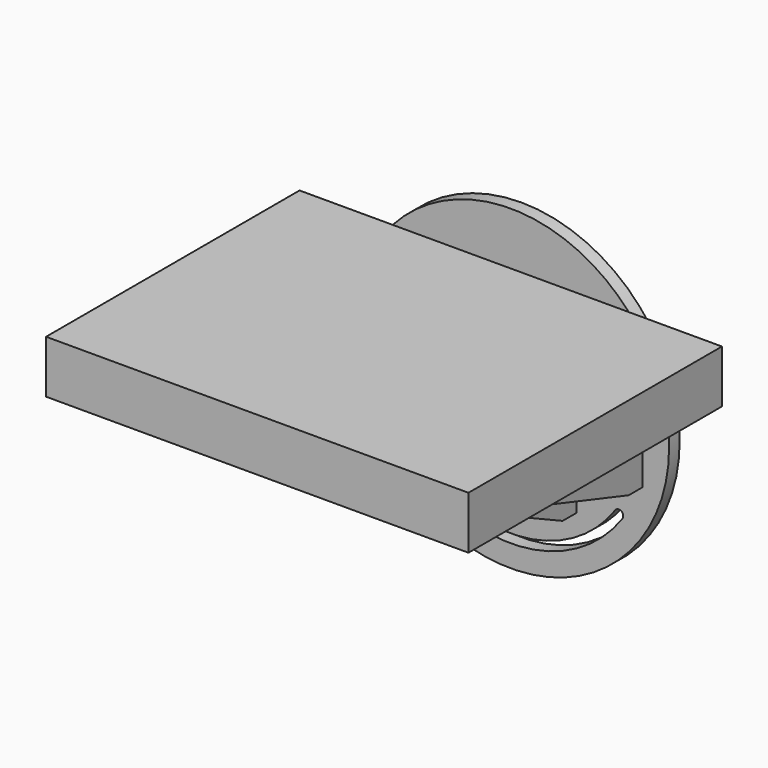
from build123d import *

# Parameters (mm, degrees)
F0_R      = 228.6
F1_DEPTH  = 19.05
F2_W      = 19.05
F2_H      = 139.7
F2_H_2    = 203.2
F3_DEPTH  = 457.2
F5_DEPTH  = 25.4
F7_DEPTH  = 25.4
F9_DEPTH  = 25.4
F11_DEPTH = 25.4


with BuildPart() as f1:
    # F0 (on Front) → F1 (new body)
    with BuildSketch(Plane.XZ):
        Circle(F0_R)
        with BuildLine():
            ThreePointArc((161.25008, -112.908521), (0, -196.85), (-161.25008, -112.908521))
            ThreePointArc((-161.25008, -112.908521), (-159.690675, -104.064696), (-150.846849, -105.624101))
            ThreePointArc((-150.846849, -105.624101), (0, -184.15), (150.846849, -105.624101))
            ThreePointArc((150.846849, -105.624101), (159.690675, -104.064696), (161.25008, -112.908521))
        make_face(mode=Mode.SUBTRACT)
        with BuildLine():
            ThreePointArc((-7.802423, -5.463316), (-2.864223, 9.084154), (9.525, 0))
            ThreePointArc((9.525, 0), (9.084154, -2.864223), (7.802423, -5.463316))
            ThreePointArc((7.802423, -5.463316), (4.398156, -8.448778), (0, -9.525))
            ThreePointArc((0, -9.525), (-4.398156, -8.448778), (-7.802423, -5.463316))
        make_face(mode=Mode.SUBTRACT)
    extrude(amount=F1_DEPTH)

    # F2 (on face) → F3 (join)
    with BuildSketch(Plane.XZ.offset(19.05)):
        with BuildLine():
            Line((304.8, 152.4), (170.38838, 152.4))
            ThreePointArc((170.38838, 152.4), (196.682779, 116.506843), (215.526147, 76.2))
            Line((215.526147, 76.2), (304.8, 76.2))
            Line((304.8, 76.2), (304.8, 152.4))
        make_face()
        with BuildLine():
            Line((170.38838, 152.4), (-170.38838, 152.4))
            ThreePointArc((-170.38838, 152.4), (-196.682779, 116.506843), (-215.526147, 76.2))
            Line((-215.526147, 76.2), (-190.5, 76.2))
            Line((-190.5, 76.2), (-171.45, 76.2))
            Line((-171.45, 76.2), (-95.25, 76.2))
            Line((-95.25, 76.2), (-76.2, 76.2))
            Line((-76.2, 76.2), (76.2, 76.2))
            Line((76.2, 76.2), (95.25, 76.2))
            Line((95.25, 76.2), (171.45, 76.2))
            Line((171.45, 76.2), (190.5, 76.2))
            Line((190.5, 76.2), (215.526147, 76.2))
            ThreePointArc((215.526147, 76.2), (196.682779, 116.506843), (170.38838, 152.4))
        make_face()
        with BuildLine():
            Line((-170.38838, 152.4), (-304.8, 152.4))
            Line((-304.8, 152.4), (-304.8, 76.2))
            Line((-304.8, 76.2), (-215.526147, 76.2))
            ThreePointArc((-215.526147, 76.2), (-196.682779, 116.506843), (-170.38838, 152.4))
        make_face()
        with Locations((-180.975, 6.35)):
            Rectangle(F2_W, F2_H)
        with Locations((-85.725, -25.4)):
            Rectangle(F2_W, F2_H_2)
        with Locations((85.725, -25.4)):
            Rectangle(F2_W, F2_H_2)
        with Locations((180.975, 6.35)):
            Rectangle(F2_W, F2_H)
    extrude(amount=F3_DEPTH)

    # F4 (on face) → F5 (cut)
    with BuildSketch(Plane.YZ.offset(190.5)):
        Polygon((-44.45, -63.5), (-476.25, 76.2), (-476.25, -63.5), align=None)
    extrude(amount=-F5_DEPTH, mode=Mode.SUBTRACT)

    # F6 (on face) → F7 (cut)
    with BuildSketch(Plane.YZ.offset(95.25)):
        Polygon((-44.45, -127), (-476.25, 76.2), (-476.25, -127), align=None)
    extrude(amount=-F7_DEPTH, mode=Mode.SUBTRACT)

    # F8 (on face) → F9 (cut)
    with BuildSketch(Plane.YZ.offset(-76.2)):
        Polygon((-44.45, -127), (-476.25, 76.2), (-476.25, -127), align=None)
    extrude(amount=-F9_DEPTH, mode=Mode.SUBTRACT)

    # F10 (on face) → F11 (cut)
    with BuildSketch(Plane(origin=(-190.5, 0, 0), x_dir=(0, -1, 0), z_dir=(-1, 0, 0))):
        Polygon((476.25, -63.5), (476.25, 76.2), (44.45, -63.5), align=None)
    extrude(amount=-F11_DEPTH, mode=Mode.SUBTRACT)


solid = f1.part
